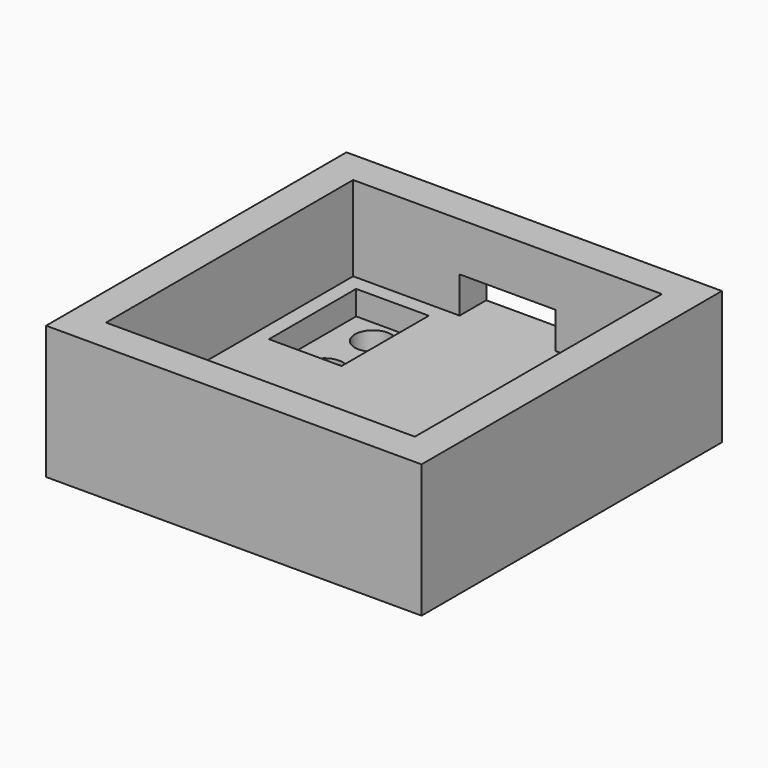
from build123d import *

# Parameters (mm, degrees)
SKETCH_W        = 31
SKETCH_H        = 31
PAD_DEPTH       = 11
SKETCH001_W     = 25.5
SKETCH001_H     = 25.5
POCKET_DEPTH    = 7
SKETCH002_W     = 6
SKETCH002_H     = 9
POCKET001_DEPTH = 2
SKETCH003_R     = 1.5
POCKET002_DEPTH = 5
SKETCH004_W     = 7.912528
SKETCH004_H     = 3
POCKET003_DEPTH = 5


with BuildPart() as part:
    # Sketch → Pad (new body)
    with BuildSketch(Plane.XY):
        with Locations((15.5, 15.5)):
            Rectangle(SKETCH_W, SKETCH_H)
    extrude(amount=PAD_DEPTH)

    # Sketch001 (on Face6 of Pad) → Pocket (cut)
    with BuildSketch(Plane.XY.offset(11)):
        with Locations((15.5, 15.5)):
            Rectangle(SKETCH001_W, SKETCH001_H)
    extrude(amount=-POCKET_DEPTH, mode=Mode.SUBTRACT)

    # Sketch002 (on Face11 of Pocket) → Pocket001 (cut)
    with BuildSketch(Plane.XY.offset(4)):
        with Locations((7, 22.5)):
            Rectangle(SKETCH002_W, SKETCH002_H)
    extrude(amount=-POCKET001_DEPTH, mode=Mode.SUBTRACT)

    # Sketch003 (on Face16 of Pocket001) → Pocket002 (cut)
    with BuildSketch(Plane.XY.offset(2)):
        with Locations((7, 25)):
            Circle(SKETCH003_R)
        with Locations((7, 20)):
            Circle(SKETCH003_R)
    extrude(amount=-POCKET002_DEPTH, mode=Mode.SUBTRACT)

    # Sketch004 (on Face12 of Pocket002) → Pocket003 (cut)
    with BuildSketch(Plane.XZ.offset(-28.25)):
        with Locations((15.5, 5.5)):
            Rectangle(SKETCH004_W, SKETCH004_H)
    extrude(amount=-POCKET003_DEPTH, mode=Mode.SUBTRACT)


solid = part.part
